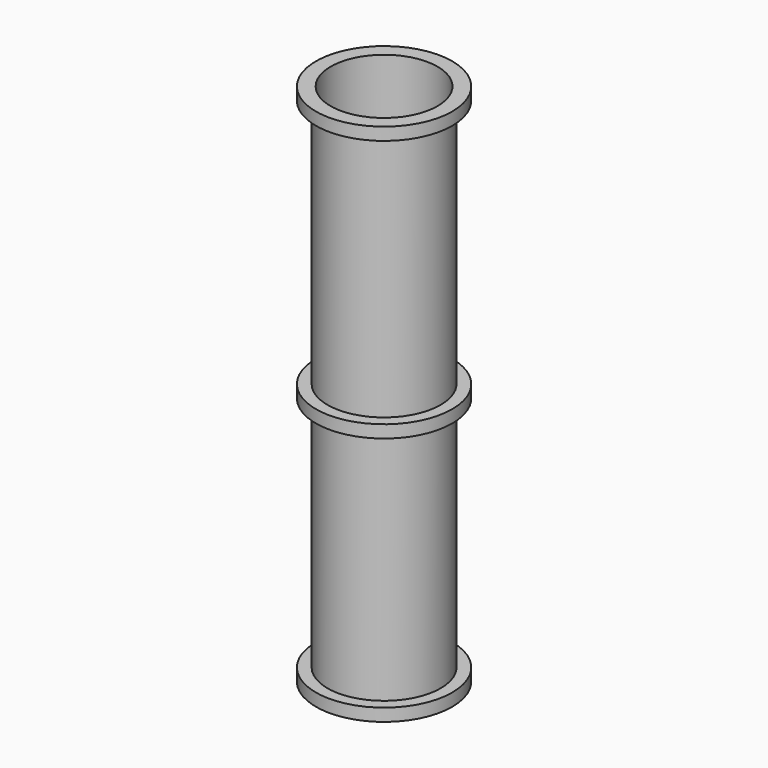
from build123d import *


with BuildPart() as f2:
    # F0 (on Front) → F2 (revolve)
    with BuildSketch(Plane.XZ):
        Polygon((51, 500), (51, 0), (65, 0), (65, 12), (54, 12), (54, 488), (65, 488), (65, 500), align=None)
    revolve(axis=Axis((0, 0, 71.83104), (0, 0, 1)))


with BuildPart() as f4:
    # F3 (on Front) → F4 (revolve)
    with BuildSketch(Plane.XZ):
        Polygon((35, 50), (51, 0), (65, 0), (65, 12), (50.309857, 12), (41.989857, 38), (47.5, 38), (47.5, 50), align=None)
    revolve(axis=Axis((0, 0, 71.83104), (0, 0, 1)))


with BuildPart() as f6:
    # F5 (on Front) → F6 (revolve)
    with BuildSketch(Plane.XZ):
        Polygon((51, 250), (51, 0), (65, 0), (65, 12), (54, 12), (54, 238), (65, 238), (65, 250), align=None)
    revolve(axis=Axis((0, 0, 71.83104), (0, 0, 1)))


solid = Compound([f2.part, f4.part, f6.part])
